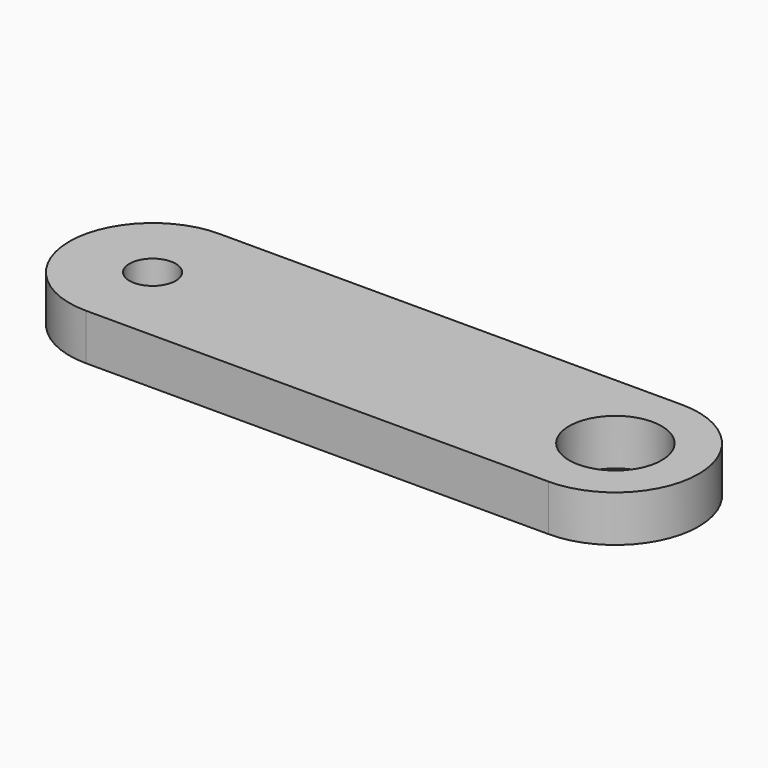
from build123d import *

# Parameters (mm, degrees)
F1_DEPTH = 25
F2_R     = 12.5
F2_R_2   = 25
F3_DEPTH = 25.001


with BuildPart() as f1:
    # F0 (on Top) → F1 (new body)
    with BuildSketch(Plane.XY):
        with BuildLine():
            Line((250, 45), (0, 45))
            ThreePointArc((0, 45), (-45, 0), (0, -45))
            Line((0, -45), (250, -45))
            ThreePointArc((250, -45), (295, 0), (250, 45))
        make_face()
    extrude(amount=F1_DEPTH)

    # F2 (on face) → F3 (cut, through all)
    with BuildSketch(Plane.XY.offset(25)):
        Circle(F2_R)
        with Locations((250, 0)):
            Circle(F2_R_2)
    extrude(amount=-F3_DEPTH, mode=Mode.SUBTRACT)


solid = f1.part
